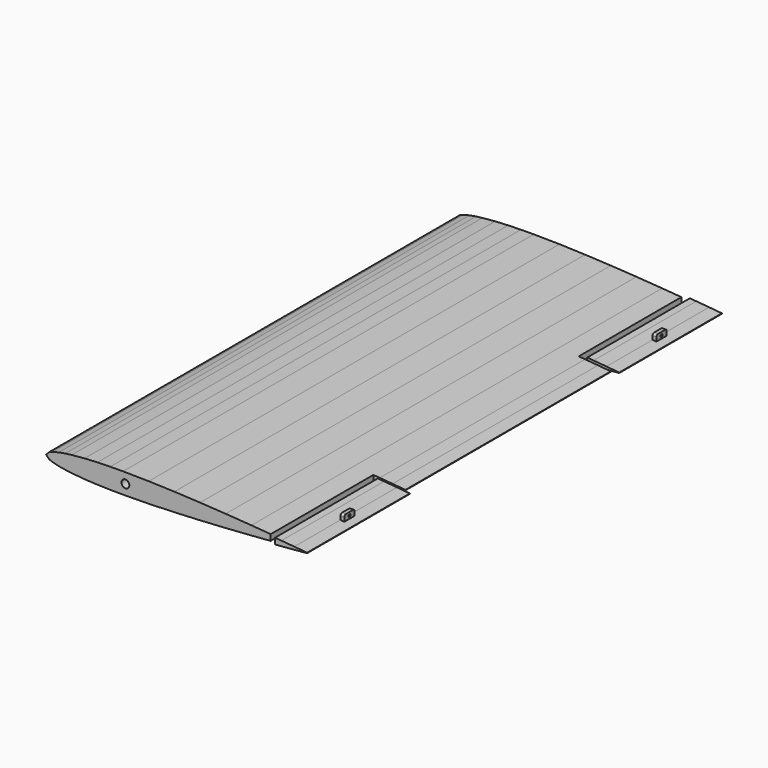
from build123d import *

# Parameters (mm, degrees)
SKETCH005_W    = 25
SKETCH005_H    = 100
PAD_DEPTH      = 10
SKETCH006_W    = 25
SKETCH006_H    = 100
PAD001_DEPTH   = 10
CYLINDER_R     = 3.05
CYLINDER_DEPTH = 400
SKETCH012_R    = 1
PAD003_DEPTH   = 3
SKETCH011_R    = 1
PAD002_DEPTH   = 3


with BuildPart() as body:
    # Sketch005 → Pad (new body, symmetric)
    with BuildSketch(Plane.XY):
        with Locations((187.5, 50)):
            Rectangle(SKETCH005_W, SKETCH005_H)
    extrude(amount=PAD_DEPTH, both=True)


with BuildPart() as body002:
    # Sketch006 → Pad001 (new body, symmetric)
    with BuildSketch(Plane(origin=(0, 300, 0), x_dir=(1, 0, 0), z_dir=(0, 0, 1))):
        with Locations((187.5, 50)):
            Rectangle(SKETCH006_W, SKETCH006_H)
    extrude(amount=PAD001_DEPTH, both=True)


with BuildPart() as body003:
    # Cylinder → Cylinder (join)
    with BuildSketch(Plane(origin=(61.8, 400, 0), x_dir=(1, 0, 0), z_dir=(0, -1, 0))):
        Circle(CYLINDER_R)
    extrude(amount=CYLINDER_DEPTH)


with BuildPart() as stab:
    # Sketch → AdditiveLoft section 0
    with BuildSketch(Plane.XZ):
        Polygon((200, 0.168), (190, 1.074), (180, 1.93), (160, 3.498), (140, 4.886), (120, 6.086), (100, 7.058), (80, 7.738), (60, 8.002), (50, 7.922), (40, 7.65), (30, 7.128), (20, 6.242), (15, 5.6), (10, 4.738), (5, 3.486), (2.5, 2.526), (0, 0), (2.5, -2.526), (5, -3.486), (10, -4.738), (15, -5.6), (20, -6.242), (30, -7.128), (40, -7.65), (50, -7.922), (60, -8.002), (80, -7.738), (100, -7.058), (120, -6.086), (140, -4.886), (160, -3.498), (180, -1.93), (190, -1.074), (200, -0.168), align=None)
    # Sketch001 → AdditiveLoft section 1
    with BuildSketch(Plane.XZ.offset(-100)):
        Polygon((200, 0.168), (190, 1.074), (180, 1.93), (160, 3.498), (140, 4.886), (120, 6.086), (100, 7.058), (80, 7.738), (60, 8.002), (50, 7.922), (40, 7.65), (30, 7.128), (20, 6.242), (15, 5.6), (10, 4.738), (5, 3.486), (2.5, 2.526), (0, 0), (2.5, -2.526), (5, -3.486), (10, -4.738), (15, -5.6), (20, -6.242), (30, -7.128), (40, -7.65), (50, -7.922), (60, -8.002), (80, -7.738), (100, -7.058), (120, -6.086), (140, -4.886), (160, -3.498), (180, -1.93), (190, -1.074), (200, -0.168), align=None)
    # Sketch002 → AdditiveLoft section 2
    with BuildSketch(Plane.XZ.offset(-200)):
        Polygon((200, 0.168), (190, 1.074), (180, 1.93), (160, 3.498), (140, 4.886), (120, 6.086), (100, 7.058), (80, 7.738), (60, 8.002), (50, 7.922), (40, 7.65), (30, 7.128), (20, 6.242), (15, 5.6), (10, 4.738), (5, 3.486), (2.5, 2.526), (0, 0), (2.5, -2.526), (5, -3.486), (10, -4.738), (15, -5.6), (20, -6.242), (30, -7.128), (40, -7.65), (50, -7.922), (60, -8.002), (80, -7.738), (100, -7.058), (120, -6.086), (140, -4.886), (160, -3.498), (180, -1.93), (190, -1.074), (200, -0.168), align=None)
    # Sketch003 → AdditiveLoft section 3
    with BuildSketch(Plane.XZ.offset(-300)):
        Polygon((200, 0.168), (190, 1.074), (180, 1.93), (160, 3.498), (140, 4.886), (120, 6.086), (100, 7.058), (80, 7.738), (60, 8.002), (50, 7.922), (40, 7.65), (30, 7.128), (20, 6.242), (15, 5.6), (10, 4.738), (5, 3.486), (2.5, 2.526), (0, 0), (2.5, -2.526), (5, -3.486), (10, -4.738), (15, -5.6), (20, -6.242), (30, -7.128), (40, -7.65), (50, -7.922), (60, -8.002), (80, -7.738), (100, -7.058), (120, -6.086), (140, -4.886), (160, -3.498), (180, -1.93), (190, -1.074), (200, -0.168), align=None)
    # Sketch004 → AdditiveLoft section 4
    with BuildSketch(Plane.XZ.offset(-400)):
        Polygon((200, 0.168), (190, 1.074), (180, 1.93), (160, 3.498), (140, 4.886), (120, 6.086), (100, 7.058), (80, 7.738), (60, 8.002), (50, 7.922), (40, 7.65), (30, 7.128), (20, 6.242), (15, 5.6), (10, 4.738), (5, 3.486), (2.5, 2.526), (0, 0), (2.5, -2.526), (5, -3.486), (10, -4.738), (15, -5.6), (20, -6.242), (30, -7.128), (40, -7.65), (50, -7.922), (60, -8.002), (80, -7.738), (100, -7.058), (120, -6.086), (140, -4.886), (160, -3.498), (180, -1.93), (190, -1.074), (200, -0.168), align=None)
    loft()

    # Boolean: cut Body, Body002, Body003
    add(body.part, mode=Mode.SUBTRACT)
    add(body002.part, mode=Mode.SUBTRACT)
    add(body003.part, mode=Mode.SUBTRACT)


with BuildPart() as body007:
    # Sketch012 → Pad003 (new body)
    with BuildSketch(Plane.YZ):
        with BuildLine():
            Line((-5, -2.5), (5, -2.5))
            Line((5, -2.5), (5, 0.996815))
            ThreePointArc((5, 0.996815), (4.559727, 2.059727), (3.496815, 2.5))
            Line((3.496815, 2.5), (-3.485502, 2.5))
            ThreePointArc((-3.485502, 2.5), (-4.556414, 2.056414), (-5, 0.985503))
            Line((-5, 0.985503), (-5, -2.5))
        make_face()
        Circle(SKETCH012_R, mode=Mode.SUBTRACT)
    extrude(amount=PAD003_DEPTH)


with BuildPart() as body007_1:
    # Body007 placement: moved
    add(body007.part.moved(Location((195, 352, 3))))


with BuildPart() as trim_right:
    # Sketch007 → AdditiveLoft001 section 0
    with BuildSketch(Plane(origin=(5, 302, 0), x_dir=(1, 0, 0), z_dir=(0, -1, 0))):
        Polygon((200, 0.168), (190, 1.074), (180, 1.93), (175.00003, 2.321998), (175.00003, -2.321998), (180, -1.93), (190, -1.074), (200, -0.168), align=None)
    # Sketch008 → AdditiveLoft001 section 1
    with BuildSketch(Plane(origin=(5, 402, 0), x_dir=(1, 0, 0), z_dir=(0, -1, 0))):
        Polygon((200, 0.168), (190, 1.074), (180, 1.93), (175.00003, 2.321998), (175.00003, -2.321998), (180, -1.93), (190, -1.074), (200, -0.168), align=None)
    loft()

    # Boolean001: union Body007
    add(body007_1.part)


with BuildPart() as body006:
    # Sketch011 → Pad002 (new body)
    with BuildSketch(Plane.YZ):
        with BuildLine():
            Line((-5, -2.5), (5, -2.5))
            Line((5, -2.5), (5, 0.996815))
            ThreePointArc((5, 0.996815), (4.559727, 2.059727), (3.496815, 2.5))
            Line((3.496815, 2.5), (-3.485502, 2.5))
            ThreePointArc((-3.485502, 2.5), (-4.556414, 2.056414), (-5, 0.985503))
            Line((-5, 0.985503), (-5, -2.5))
        make_face()
        Circle(SKETCH011_R, mode=Mode.SUBTRACT)
    extrude(amount=PAD002_DEPTH)


with BuildPart() as body006_1:
    # Body006 placement: moved
    add(body006.part.moved(Location((195, 48, 3))))


with BuildPart() as trim_left:
    # Sketch010 → AdditiveLoft002 section 0
    with BuildSketch(Plane(origin=(5, 98, 0), x_dir=(1, 0, 0), z_dir=(0, -1, 0))):
        Polygon((200, 0.168), (190, 1.074), (180, 1.93), (175.00003, 2.321998), (175.00003, -2.321998), (180, -1.93), (190, -1.074), (200, -0.168), align=None)
    # Sketch009 → AdditiveLoft002 section 1
    with BuildSketch(Plane(origin=(5, -2, 0), x_dir=(1, 0, 0), z_dir=(0, -1, 0))):
        Polygon((200, 0.168), (190, 1.074), (180, 1.93), (175.00003, 2.321998), (175.00003, -2.321998), (180, -1.93), (190, -1.074), (200, -0.168), align=None)
    loft()

    # Boolean002: union Body006
    add(body006_1.part)


solid = Compound([stab.part, trim_right.part, trim_left.part])
